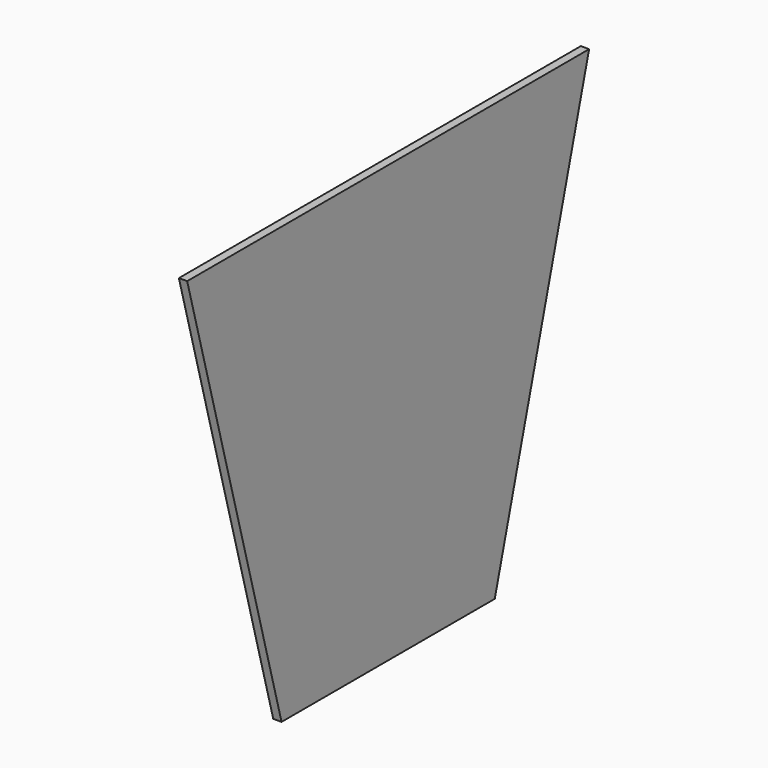
from build123d import *

# Parameters (mm, degrees)
F1_DEPTH = 1


with BuildPart() as f1:
    # F0 (on Right) → F1 (new body)
    with BuildSketch(Plane.YZ):
        Polygon((-16.044787, 0), (0, 0), (0.001564, 0), (16.046351, 0), (30.25, 52.5), (0, 52.5), (-30.25, 52.5), align=None)
        Polygon((-16.044787, 0), (0, 0), (0.001564, 0), (16.046351, 0), (30.25, 52.5), (0, 52.5), (-30.25, 52.5), align=None)
    extrude(amount=F1_DEPTH)


solid = f1.part
